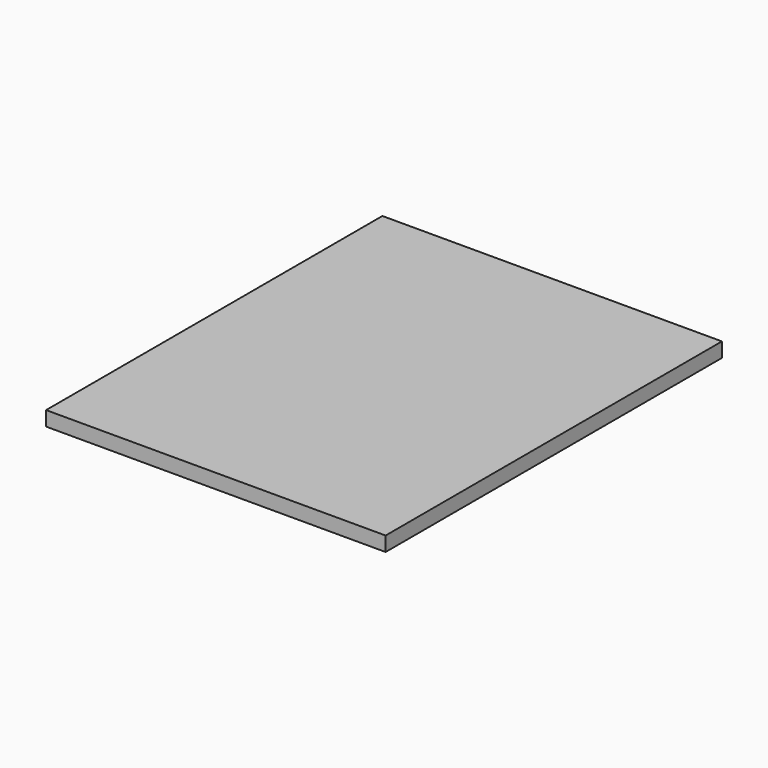
from build123d import *

# Parameters (mm, degrees)
REFINELINEAREXTRUDE_W = 260
REFINELINEAREXTRUDE_H = 210
LINEAREXTRUDE_DEPTH   = 9


with BuildPart() as part:
    # RefineLinearExtrude → LinearExtrude (new body)
    with BuildSketch(Plane(origin=(105, 0, 0), x_dir=(0, 1, 0), z_dir=(0, 0, 1))):
        Rectangle(REFINELINEAREXTRUDE_W, REFINELINEAREXTRUDE_H)
    extrude(amount=LINEAREXTRUDE_DEPTH)


solid = part.part
